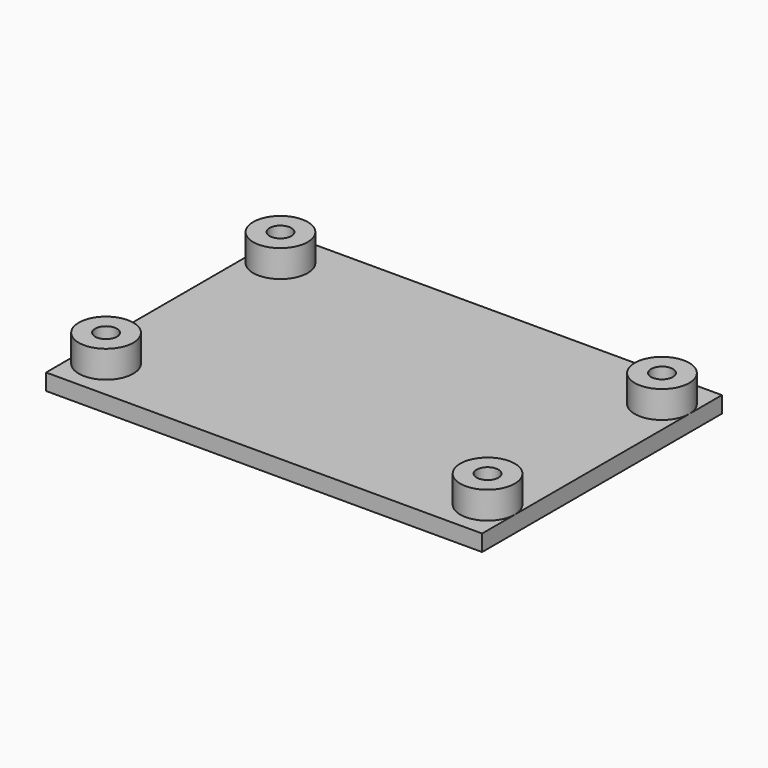
from build123d import *

# Parameters (mm, degrees)
SKETCH_W     = 80
SKETCH_H     = 55
PAD_DEPTH    = 3
SKETCH001_R  = 5
PAD001_DEPTH = 5
SKETCH002_R  = 2
POCKET_DEPTH = 5


with BuildPart() as part:
    # Sketch → Pad (new body)
    with BuildSketch(Plane.XY):
        with Locations((40, 27.5)):
            Rectangle(SKETCH_W, SKETCH_H)
    extrude(amount=-PAD_DEPTH)

    # Sketch001 → Pad001 (join)
    with BuildSketch(Plane.XY):
        with Locations((5, 47.5)):
            Circle(SKETCH001_R)
        with Locations((75, 47.5)):
            Circle(SKETCH001_R)
        with Locations((5, 7.5)):
            Circle(SKETCH001_R)
        with Locations((75, 7.5)):
            Circle(SKETCH001_R)
    extrude(amount=PAD001_DEPTH)

    # Sketch002 → Pocket (cut, symmetric)
    with BuildSketch(Plane.XY):
        with Locations((5, 47.5)):
            Circle(SKETCH002_R)
        with Locations((75, 47.5)):
            Circle(SKETCH002_R)
        with Locations((75, 7.5)):
            Circle(SKETCH002_R)
        with Locations((5, 7.5)):
            Circle(SKETCH002_R)
    extrude(amount=POCKET_DEPTH, both=True, mode=Mode.SUBTRACT)


solid = part.part
